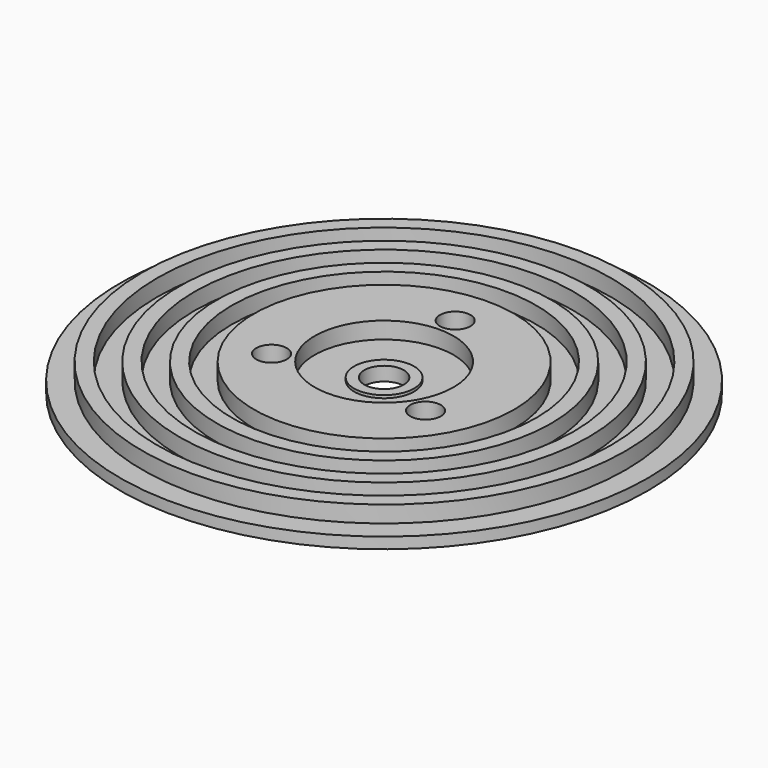
from build123d import *

# Parameters (mm, degrees)
F2_R     = 1.5
F3_DEPTH = 5.001
F4_R     = 2.75
F5_DEPTH = 3


with BuildPart() as f1:
    # F0 (on Front) → F1 (revolve)
    with BuildSketch(Plane.XZ):
        Polygon((3.55, 2.5), (3.55, 0), (47.5, 0), (47.5, 2), (43.5, 2), (43.5, 5), (40.8, 5), (40.8, 2), (36.8, 2), (36.8, 5), (34.1, 5), (34.1, 2), (30.1, 2), (30.1, 5), (27.4, 5), (27.4, 2), (23.4, 2), (23.4, 5), (12.5, 5), (12.5, 2), (5.4, 2), (5.4, 2.5), align=None)
    revolve(axis=Axis((0, 0, 0.333373), (0, 0, -1)))

    # F2 (on Top) → F3 (cut, through all)
    with BuildSketch(Plane.XY):
        with Locations((0, 16)):
            Circle(F2_R)
        with Locations((-13.856406, -8)):
            Circle(F2_R)
        with Locations((13.856406, -8)):
            Circle(F2_R)
    extrude(amount=F3_DEPTH, mode=Mode.SUBTRACT)

    # F4 (on face) → F5 (cut)
    with BuildSketch(Plane.XY.offset(5)):
        with Locations((0, 16)):
            Circle(F4_R)
        with Locations((-13.856406, -8)):
            Circle(F4_R)
        with Locations((13.856406, -8)):
            Circle(F4_R)
    extrude(amount=-F5_DEPTH, mode=Mode.SUBTRACT)


solid = f1.part
